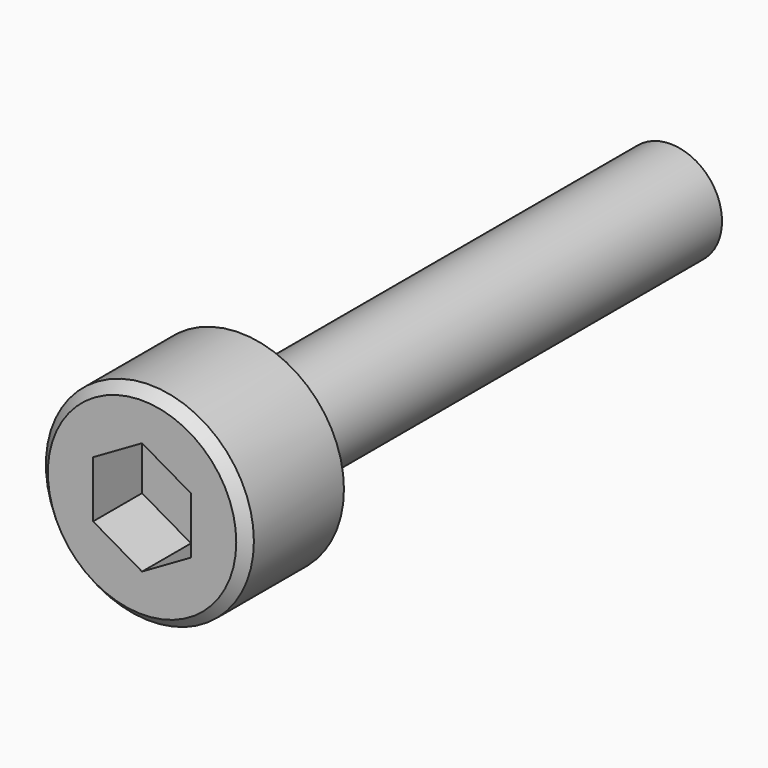
from build123d import *

# Parameters (mm, degrees)
F0_R     = 4.25
F1_DEPTH = 5
F2_R     = 2.1
F3_DEPTH = 22
F5_DEPTH = 2.5
F6_SIZE  = 0.4


with BuildPart() as f1:
    # F0 (on Front) → F1 (new body)
    with BuildSketch(Plane.XZ):
        Circle(F0_R)
    extrude(amount=F1_DEPTH)

    # F2 (on face) → F3 (join)
    with BuildSketch(Plane(origin=(0, 0, 0), x_dir=(-1, 0, 0), z_dir=(0, 1, 0))):
        Circle(F2_R)
    extrude(amount=F3_DEPTH)

    # F4 (on face) → F5 (cut)
    with BuildSketch(Plane.XZ.offset(5)):
        Polygon((0, -2.309401), (2, -1.154701), (2, 1.154701), (0, 2.309401), (-2, 1.154701), (-2, -1.154701), align=None)
    extrude(amount=-F5_DEPTH, mode=Mode.SUBTRACT)

    # F6
    f6_edges = [f1.edges().sort_by_distance(p)[0] for p in [
        (-4.25, -5, 0),
    ]]
    chamfer(f6_edges, length=F6_SIZE)


solid = f1.part
